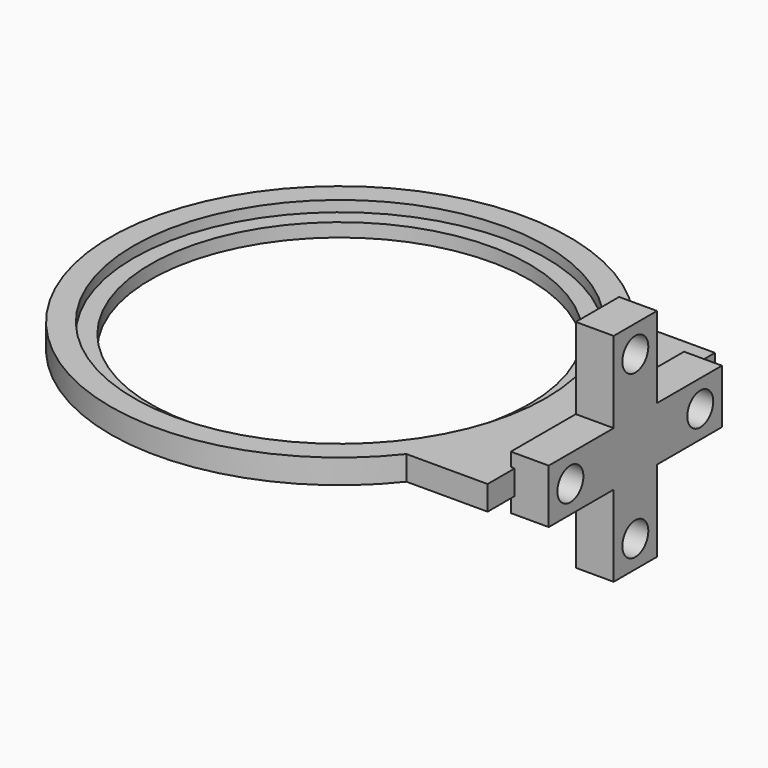
from build123d import *

# Parameters (mm, degrees)
F0_R     = 42.4
F0_R_2   = 35
F1_DEPTH = 2.5
F2_R     = 42.4
F2_R_2   = 38.1
F3_DEPTH = 2
F7_DEPTH = 4.5
F8_START = 3.2
F5_R     = 3
F8_DEPTH = 7


with BuildPart() as f1:
    # F0 (on Top) → F1 (new body)
    with BuildSketch(Plane.XY):
        Circle(F0_R)
        Circle(F0_R_2, mode=Mode.SUBTRACT)
    extrude(amount=F1_DEPTH)

    # F2 (on face) → F3 (join)
    with BuildSketch(Plane.XY.offset(2.5)):
        Circle(F2_R)
        Circle(F2_R_2, mode=Mode.SUBTRACT)
    extrude(amount=F3_DEPTH)

    # F6 (on face) → F7 (join)
    with BuildSketch(Plane.XY.offset(4.5)):
        with BuildLine():
            Line((48.2971094842, -26.25), (48.2971094842, 26.25))
            Line((48.2971094842, 26.25), (33.2971094842, 26.25))
            ThreePointArc((33.2971094842, 26.25), (42.4, 0), (33.2971094842, -26.25))
            Line((33.2971094842, -26.25), (48.2971094842, -26.25))
        make_face()
    extrude(amount=-F7_DEPTH)

    # F5 (on offset) → F8 (join)
    with BuildSketch(Plane.YZ.offset(44.38663).offset(F8_START)):
        Polygon((20, -3), (20, 7), (5, 7), (5, 22), (-5, 22), (-5, 7), (-20, 7), (-20, -3), (-5, -3), (-5, -18), (5, -18), (5, -3), align=None)
        with Locations((0, -13)):
            Circle(F5_R, mode=Mode.SUBTRACT)
        with Locations((-15, 2)):
            Circle(F5_R, mode=Mode.SUBTRACT)
        with Locations((15, 2)):
            Circle(F5_R, mode=Mode.SUBTRACT)
        with Locations((0, 17)):
            Circle(F5_R, mode=Mode.SUBTRACT)
    extrude(amount=F8_DEPTH)


solid = f1.part
